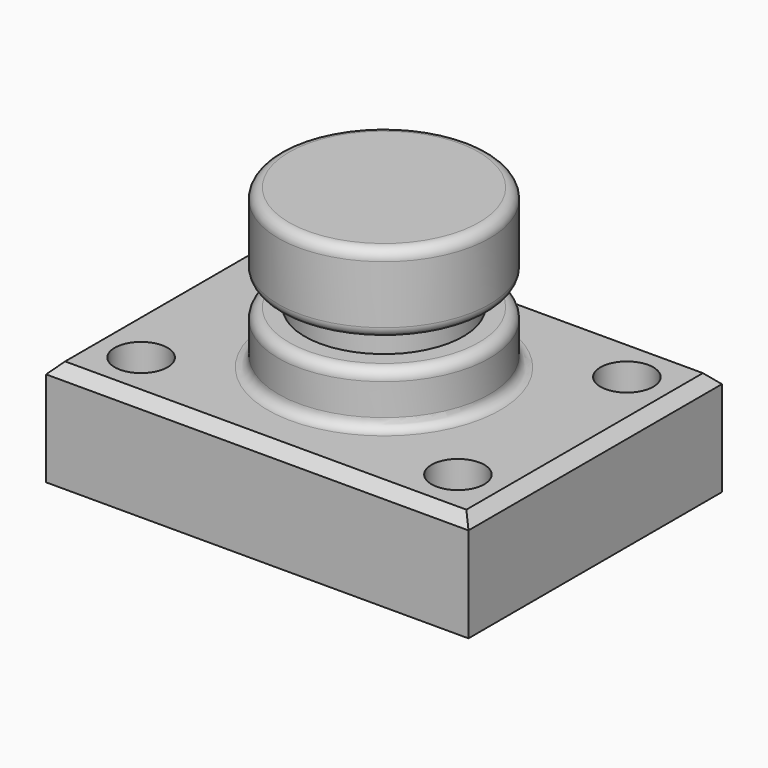
from build123d import *

# Parameters (mm, degrees)
F0_W     = 101.6
F0_H     = 76.2
F1_DEPTH = 25.4
F2_R     = 6.35
F3_DEPTH = 25.4
F4_W     = 25.4
F4_H     = 38.1
F6_W     = 45.4741939974
F6_H     = 6.35
F8_SIZE  = 2.54
F9_R     = 2.54


with BuildPart() as f1:
    # F0 (on Top) → F1 (new body)
    with BuildSketch(Plane.XY):
        Rectangle(F0_W, F0_H)
    extrude(amount=F1_DEPTH)

    # F2 (on face) → F3 (cut)
    with BuildSketch(Plane.XY.offset(25.4)):
        with Locations((-38.1, 25.4)):
            Circle(F2_R)
        with Locations((38.1, 25.4)):
            Circle(F2_R)
        with Locations((38.1, -25.4)):
            Circle(F2_R)
        with Locations((-38.1, -25.4)):
            Circle(F2_R)
    extrude(amount=-F3_DEPTH, mode=Mode.SUBTRACT)

    # F4 (on Front) → F5 (revolve)
    with BuildSketch(Plane.XZ):
        with Locations((-12.7, 44.45)):
            Rectangle(F4_W, F4_H)
    revolve(axis=Axis((0, 0, 44.45), (0, 0, -1)))

    # F6 (on Right) → F7 (revolve, cut)
    with BuildSketch(Plane.YZ):
        with Locations((-41.7870969987, 41.275)):
            Rectangle(F6_W, F6_H)
    revolve(axis=Axis((0, 0, 63.5), (0, 0, -1)), mode=Mode.SUBTRACT)

    # F8
    f8_edges = [f1.edges().sort_by_distance(p)[0] for p in [
        (50.8, 0, 25.4),
        (0, 38.1, 25.4),
        (-50.8, 0, 25.4),
        (0, -38.1, 25.4),
    ]]
    chamfer(f8_edges, length=F8_SIZE)

    # F9
    f9_edges = [f1.edges().sort_by_distance(p)[0] for p in [
        (25.4, 0, 44.45),
        (25.4, 0, 38.1),
        (25.4, 0, 63.5),
        (25.4, 0, 25.4),
    ]]
    fillet(f9_edges, radius=F9_R)


solid = f1.part
